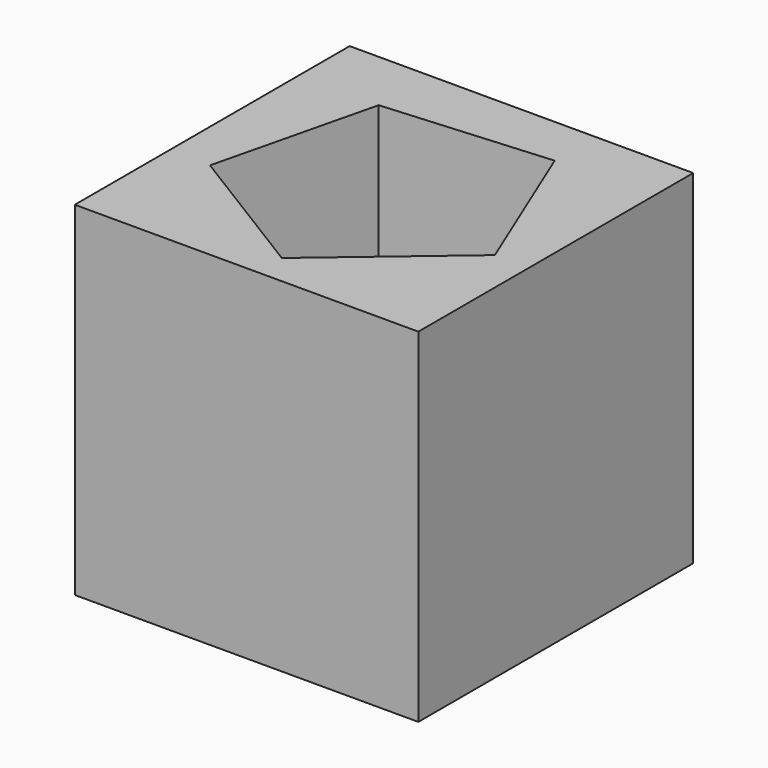
from build123d import *

# Parameters (mm, degrees)
F0_W     = 76.2
F0_H     = 76.2
F1_DEPTH = 76.2
F3_DEPTH = 76.201


with BuildPart() as f1:
    # F0 (on Top) → F1 (new body)
    with BuildSketch(Plane.XY):
        with Locations((-20.078176, 11.774255)):
            Rectangle(F0_W, F0_H)
    extrude(amount=F1_DEPTH)

    # F2 (on face) → F3 (cut, through all)
    with BuildSketch(Plane.XY.offset(76.2)):
        Polygon((-17.699675, -19.531647), (10.430504, 4.362288), (-3.601276, 38.499309), (-40.403571, 35.703213), (-49.116861, -0.16189), align=None)
    extrude(amount=-F3_DEPTH, mode=Mode.SUBTRACT)


solid = f1.part
